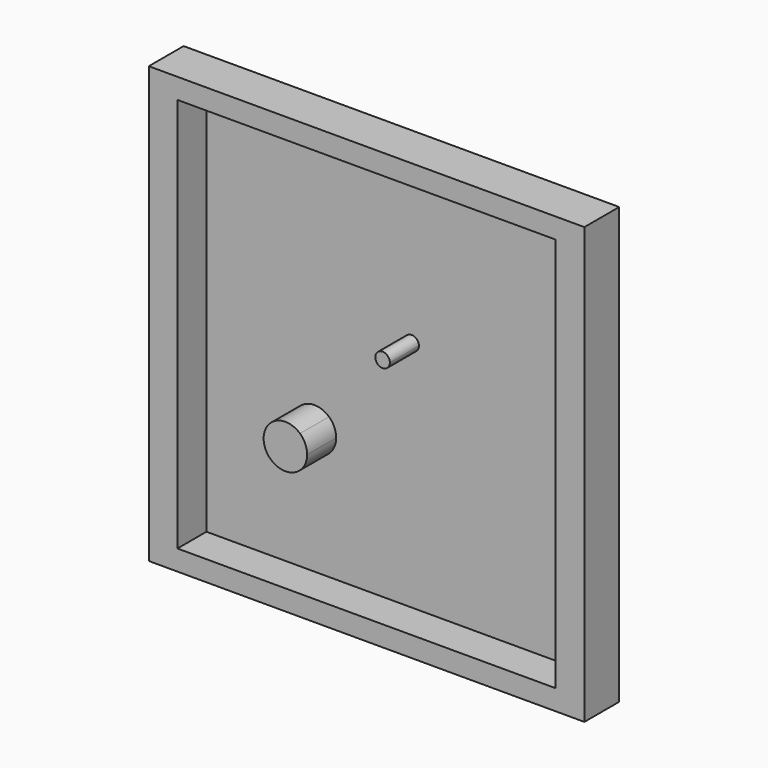
from build123d import *

# Parameters (mm, degrees)
F0_W     = 300
F0_H     = 300
F1_DEPTH = 30
F2_W     = 260.52019
F2_H     = 271.989614
F3_DEPTH = 25
F5_DEPTH = 25


with BuildPart() as f1:
    # F0 (on Front) → F1 (new body)
    with BuildSketch(Plane.XZ):
        Rectangle(F0_W, F0_H)
        Rectangle(F0_W, F0_H)
    extrude(amount=F1_DEPTH)

    # F2 (on face) → F3 (cut)
    with BuildSketch(Plane.XZ.offset(30)):
        Rectangle(F2_W, F2_H)
    extrude(amount=-F3_DEPTH, mode=Mode.SUBTRACT)

    # F4 (on face) → F5 (join)
    with BuildSketch(Plane.XZ.offset(5)):
        with BuildLine():
            ThreePointArc((-45.873974, -38.844235), (-69.621389, -56.0838), (-40.916645, -49.986262))
            ThreePointArc((-40.916645, -49.986262), (-42.2119, -43.888724), (-45.873974, -38.844235))
        make_face()
        with BuildLine():
            ThreePointArc((16.034492, 24.293919), (9.001979, 28.862168), (7.686935, 20.57991))
            ThreePointArc((7.686935, 20.57991), (13.067005, 19.725671), (16.034492, 24.293919))
        make_face()
    extrude(amount=F5_DEPTH)


solid = f1.part
